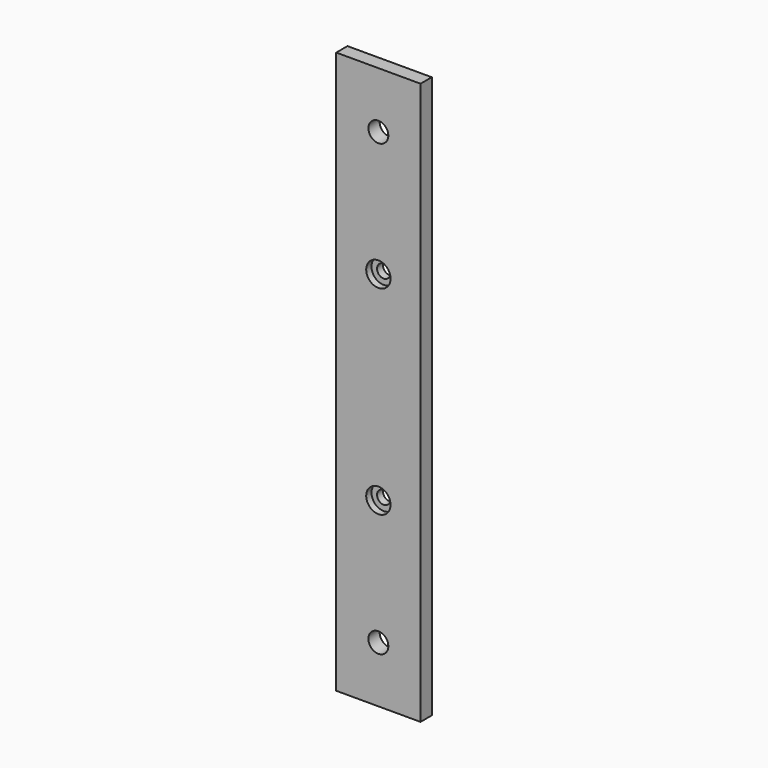
from build123d import *

# Parameters (mm, degrees)
F0_W           = 38.1
F0_H           = 6.35
F1_DEPTH       = 254
F3_D           = 9
F4_D           = 6
F4_CBORE_D     = 11
F4_CBORE_DEPTH = 3


with BuildPart() as f1:
    # F0 (on Top) → F1 (new body)
    with BuildSketch(Plane.XY):
        with Locations((19.05, 3.175)):
            Rectangle(F0_W, F0_H)
    extrude(amount=F1_DEPTH)

    # F3 (through all)
    with Locations(Plane.XZ):
        with Locations((19.05, 25.4), (19.05, 228.6)):
            Hole(F3_D / 2)

    # F4 (through all)
    with Locations(Plane.XZ):
        with Locations((19.05, 172.0088), (19.05, 81.9912)):
            CounterBoreHole(F4_D / 2, F4_CBORE_D / 2, F4_CBORE_DEPTH)


solid = f1.part
